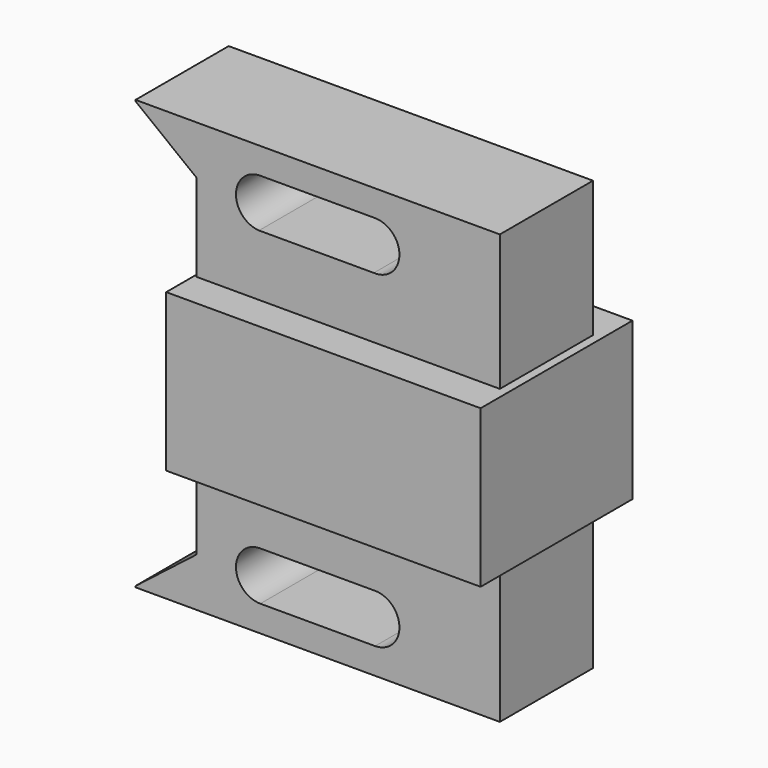
from build123d import *

# Parameters (mm, degrees)
F0_W      = 79.465718
F0_H      = 93.617142
F1_DEPTH  = 25.4
F3_DEPTH  = 50.292
F5_DEPTH  = 133.096
F6_W      = 68.579998
F6_H      = 34.29
F7_DEPTH  = 8.382
F7_FACE_W = 68.579998
F7_FACE_H = 34.29
F8_DEPTH  = 41.402


with BuildPart() as f1:
    # F0 (on Front) → F1 (new body)
    with BuildSketch(Plane.XZ):
        Rectangle(F0_W, F0_H)
    extrude(amount=F1_DEPTH)

    # F2 (on face) → F3 (cut)
    with BuildSketch(Plane.XZ.offset(25.4)):
        with BuildLine():
            ThreePointArc((-12.518571, 41.093569), (-17.8271, 35.919412), (-12.790714, 30.480001))
            Line((-12.790714, 30.480001), (12.246429, 30.480001))
            ThreePointArc((12.246429, 30.480001), (17.8271, 35.64718), (12.518571, 41.093569))
            Line((12.518571, 41.093569), (-12.518571, 41.093569))
        make_face()
        with BuildLine():
            ThreePointArc((12.518571, -41.093569), (17.8271, -35.64718), (12.246429, -30.480001))
            Line((12.246429, -30.480001), (-12.790714, -30.480001))
            ThreePointArc((-12.790714, -30.480001), (-17.8271, -35.919412), (-12.518571, -41.093569))
            Line((-12.518571, -41.093569), (12.518571, -41.093569))
        make_face()
    extrude(amount=-F3_DEPTH, mode=Mode.SUBTRACT)

    # F4 (on Front) → F5 (cut)
    with BuildSketch(Plane.XZ):
        Polygon((-26.397856, -36.16475), (-26.397856, 36.16475), (-42.18214, 48.441429), (-44.631425, -50.34643), align=None)
        Polygon((-26.397856, -36.16475), (-26.397856, 36.16475), (-42.18214, 48.441429), (-44.631425, -50.34643), align=None)
    extrude(amount=F5_DEPTH, mode=Mode.SUBTRACT)

    # F6 (on Front) → F7 (join)
    with BuildSketch(Plane.XZ):
        with Locations((7.347856, 0)):
            Rectangle(F6_W, F6_H)
    extrude(amount=-F7_DEPTH)

    # F7_face (on face) → F8 (join)
    with BuildSketch(Plane(origin=(7.347856, 8.382, 0), x_dir=(1, 0, 0), z_dir=(0, 1, 0))):
        Rectangle(F7_FACE_W, F7_FACE_H)
    extrude(amount=-F8_DEPTH)


solid = f1.part
